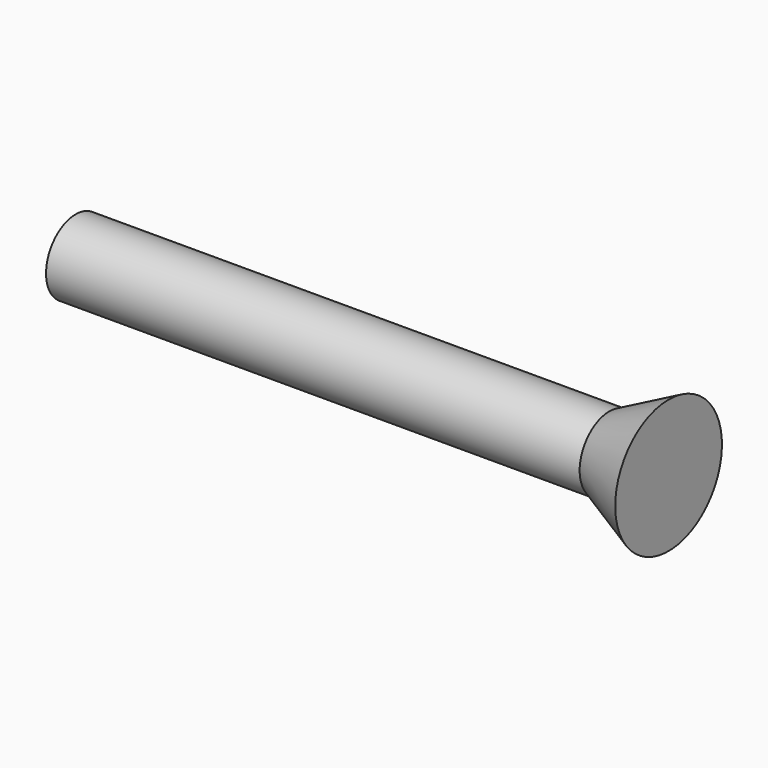
from build123d import *

# Parameters (mm, degrees)
F0_R     = 3.175
F1_DEPTH = 45.72


with BuildPart() as f1:
    # F0 (on Right) → F1 (new body)
    with BuildSketch(Plane.YZ):
        Circle(F0_R)
    extrude(amount=F1_DEPTH)

    # F2 (on Front) → F3 (revolve)
    with BuildSketch(Plane.XZ):
        Polygon((50.8, 5.715), (45.72, 3.175), (45.72, 0), (50.8, 0), align=None)
    revolve(axis=Axis((48.26, 0, 0), (-1, 0, 0)))


solid = f1.part
